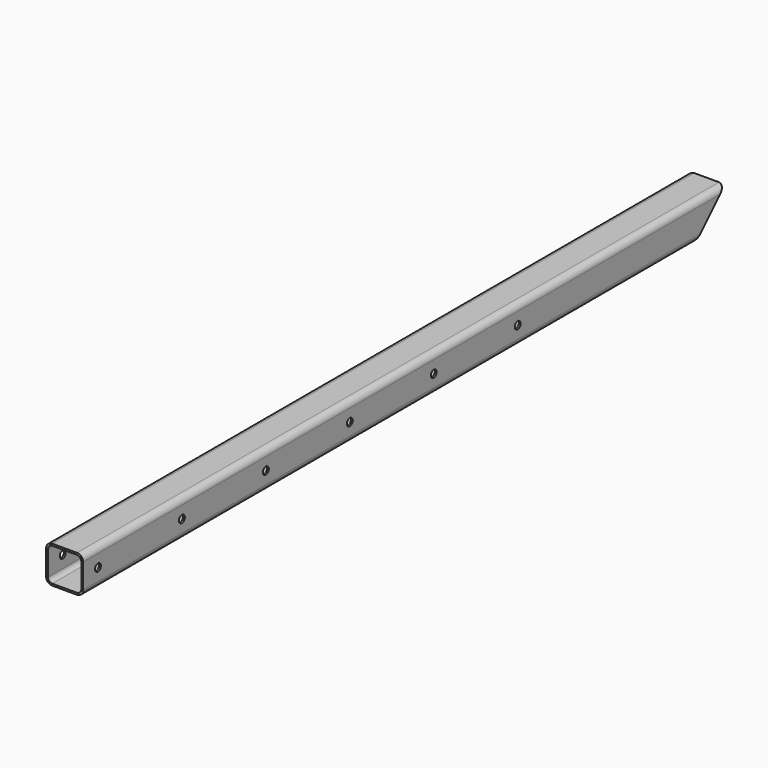
from build123d import *

# Parameters (mm, degrees)
F1_DEPTH = 650
F3_DEPTH = 30.001
F4_R     = 3
F5_DEPTH = 30.001


with BuildPart() as f1:
    # F0 (on Front) → F1 (new body)
    with BuildSketch(Plane.XZ):
        with BuildLine():
            Line((-10, -15), (10, -15))
            ThreePointArc((10, -15), (13.535534, -13.535534), (15, -10))
            Line((15, -10), (15, 10))
            ThreePointArc((15, 10), (13.535534, 13.535534), (10, 15))
            Line((10, 15), (-10, 15))
            ThreePointArc((-10, 15), (-13.535534, 13.535534), (-15, 10))
            Line((-15, 10), (-15, -10))
            ThreePointArc((-15, -10), (-13.535534, -13.535534), (-10, -15))
        make_face()
        with BuildLine():
            ThreePointArc((-10, -13.5), (-12.474874, -12.474874), (-13.5, -10))
            Line((-13.5, -10), (-13.5, 10))
            ThreePointArc((-13.5, 10), (-12.474874, 12.474874), (-10, 13.5))
            Line((-10, 13.5), (10, 13.5))
            ThreePointArc((10, 13.5), (12.474874, 12.474874), (13.5, 10))
            Line((13.5, 10), (13.5, -10))
            ThreePointArc((13.5, -10), (12.474874, -12.474874), (10, -13.5))
            Line((10, -13.5), (-10, -13.5))
        make_face(mode=Mode.SUBTRACT)
    extrude(amount=F1_DEPTH)

    # F2 (on face) → F3 (cut, through all)
    with BuildSketch(Plane.YZ.offset(15)):
        Polygon((0, -15), (0, 15), (-30, -15), align=None)
    extrude(amount=-F3_DEPTH, mode=Mode.SUBTRACT)

    # F4 (on face) → F5 (cut, through all)
    with BuildSketch(Plane.YZ.offset(15)):
        with Locations((-635, 0)):
            Circle(F4_R)
        with Locations((-550, 0)):
            Circle(F4_R)
        with Locations((-465, 0)):
            Circle(F4_R)
        with Locations((-380, 0)):
            Circle(F4_R)
        with Locations((-295, 0)):
            Circle(F4_R)
        with Locations((-210, 0)):
            Circle(F4_R)
    extrude(amount=-F5_DEPTH, mode=Mode.SUBTRACT)


solid = f1.part
